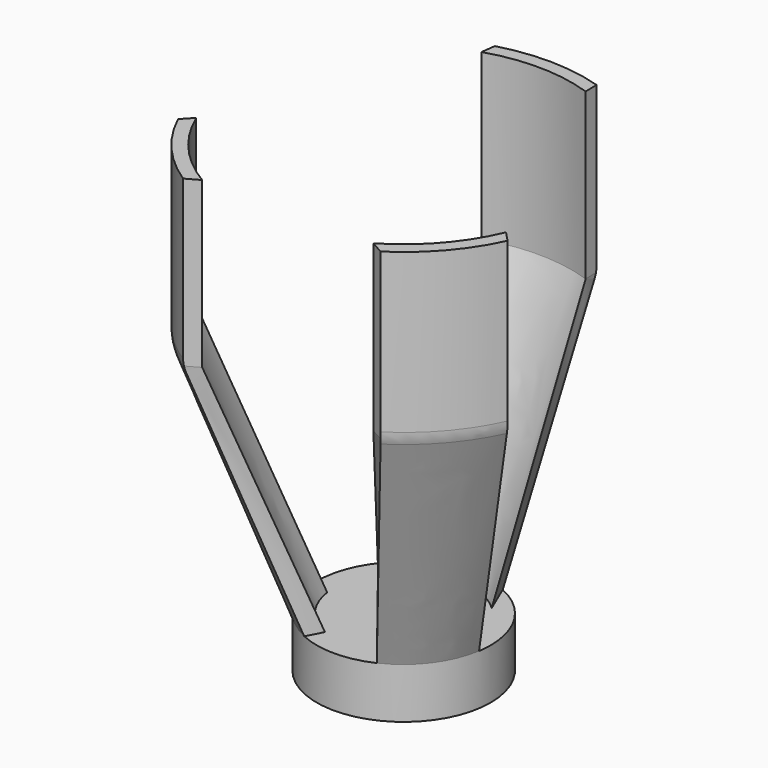
from build123d import *

# Parameters (mm, degrees)
F0_R      = 26.35
F0_R_2    = 4.75
F1_DEPTH  = 15.3
F10_DEPTH = 50
F11_R     = 10


with BuildPart() as f1:
    # F0 (on Top) → F1 (new body)
    with BuildSketch(Plane.XY):
        Circle(F0_R)
        Circle(F0_R_2, mode=Mode.SUBTRACT)
    extrude(amount=F1_DEPTH)

    # F3 (on offset) → F6 section 0
    with BuildSketch(Plane.XY.offset(15.3)):
        with BuildLine():
            Line((-20.7846096908, -3), (-26.0446251653, -4))
            ThreePointArc((-26.0446251653, -4), (-21.0361208605, -15.8683369999), (-11, -23.944153775))
            Line((-11, -23.944153775), (-8.5, -19.2028643697))
            ThreePointArc((-8.5, -19.2028643697), (-16.7341057315, -12.6873837086), (-20.7846096908, -3))
        make_face()
    # F5 (on offset) → F6 section 1
    with BuildSketch(Plane.XY.offset(90.3)):
        with BuildLine():
            Line((-46.9500885253, -19.917057701), (-49.9299671879, -23.0650899979))
            ThreePointArc((-49.9299671879, -23.0650899979), (-41.5639565173, -36.0199600032), (-29.9302797625, -46.1430206352))
            Line((-29.9302797625, -46.1430206352), (-25.939226182, -43.9107793723))
            ThreePointArc((-25.939226182, -43.9107793723), (-38.3684469263, -33.5985458088), (-46.9500885253, -19.917057701))
        make_face()
    loft()

    # F3 (on offset) → F7 section 0
    with BuildSketch(Plane.XY.offset(15.3)):
        with BuildLine():
            ThreePointArc((11, -23.944153775), (21.0361208605, -15.8683369999), (26.0446251653, -4))
            Line((26.0446251653, -4), (20.7846096908, -3))
            ThreePointArc((20.7846096908, -3), (16.7341057315, -12.6873837086), (8.5, -19.2028643697))
            Line((8.5, -19.2028643697), (11, -23.944153775))
        make_face()
    # F5 (on offset) → F7 section 1
    with BuildSketch(Plane.XY.offset(90.3)):
        with BuildLine():
            ThreePointArc((29.9302797625, -46.1430206352), (41.5639565173, -36.0199600032), (49.9299671879, -23.0650899979))
            Line((49.9299671879, -23.0650899979), (46.9500885253, -19.917057701))
            ThreePointArc((46.9500885253, -19.917057701), (38.3684469263, -33.5985458088), (25.939226182, -43.9107793723))
            Line((25.939226182, -43.9107793723), (29.9302797625, -46.1430206352))
        make_face()
    loft()

    # F3 (on offset) → F8 section 0
    with BuildSketch(Plane.XY.offset(15.3)):
        with BuildLine():
            Line((14.6209088882, 15.0741176618), (10.8002551784, 24.0349118592))
            ThreePointArc((10.8002551784, 24.0349118592), (-1.0259388653, 26.3300199287), (-12.6376925006, 23.1216614511))
            Line((-12.6376925006, 23.1216614511), (-14.6209088882, 15.0741176618))
            ThreePointArc((-14.6209088882, 15.0741176618), (0, 21), (14.6209088882, 15.0741176618))
        make_face()
    # F5 (on offset) → F8 section 1
    with BuildSketch(Plane.XY.offset(90.3)):
        with BuildLine():
            Line((16.5707036778, 48.232891056), (16.4626845195, 52.4783766747))
            ThreePointArc((16.4626845195, 52.4783766747), (0.8932369884, 54.9927461369), (-14.7496566957, 52.9853529512))
            Line((-14.7496566957, 52.9853529512), (-15.3308061409, 48.641200469))
            ThreePointArc((-15.3308061409, 48.641200469), (0.6526987204, 50.9958232052), (16.5707036778, 48.232891056))
        make_face()
    loft()

    # F9 (on offset) → F10 (join)
    with BuildSketch(Plane.XY.offset(90.3)):
        with BuildLine():
            Line((16.5707036778, 48.232891056), (16.4626845195, 52.4783766747))
            ThreePointArc((16.4626845195, 52.4783766747), (0.8932369884, 54.9927461369), (-14.7496566957, 52.9853529512))
            Line((-14.7496566957, 52.9853529512), (-15.3308061409, 48.641200469))
            ThreePointArc((-15.3308061409, 48.641200469), (0.6526987204, 50.9958232052), (16.5707036778, 48.232891056))
        make_face()
        with BuildLine():
            ThreePointArc((-25.939226182, -43.9107793723), (-38.3684469263, -33.5985458088), (-46.9500885253, -19.917057701))
            Line((-46.9500885253, -19.917057701), (-49.9299671879, -23.0650899979))
            ThreePointArc((-49.9299671879, -23.0650899979), (-41.5639565173, -36.0199600032), (-29.9302797625, -46.1430206352))
            Line((-29.9302797625, -46.1430206352), (-25.939226182, -43.9107793723))
        make_face()
        with BuildLine():
            ThreePointArc((46.9500885253, -19.917057701), (38.3684469263, -33.5985458088), (25.939226182, -43.9107793723))
            Line((25.939226182, -43.9107793723), (29.9302797625, -46.1430206352))
            ThreePointArc((29.9302797625, -46.1430206352), (41.5639565173, -36.0199600032), (49.9299671879, -23.0650899979))
            Line((49.9299671879, -23.0650899979), (46.9500885253, -19.917057701))
        make_face()
    extrude(amount=F10_DEPTH)

    # F11
    f11_edges = [f1.edges().sort_by_distance(p)[0] for p in [
        (-41.563957, -36.01996, 90.3),
        (41.563957, -36.01996, 90.3),
        (0.893237, 54.992746, 90.3),
    ]]
    fillet(f11_edges, radius=F11_R)


solid = f1.part
